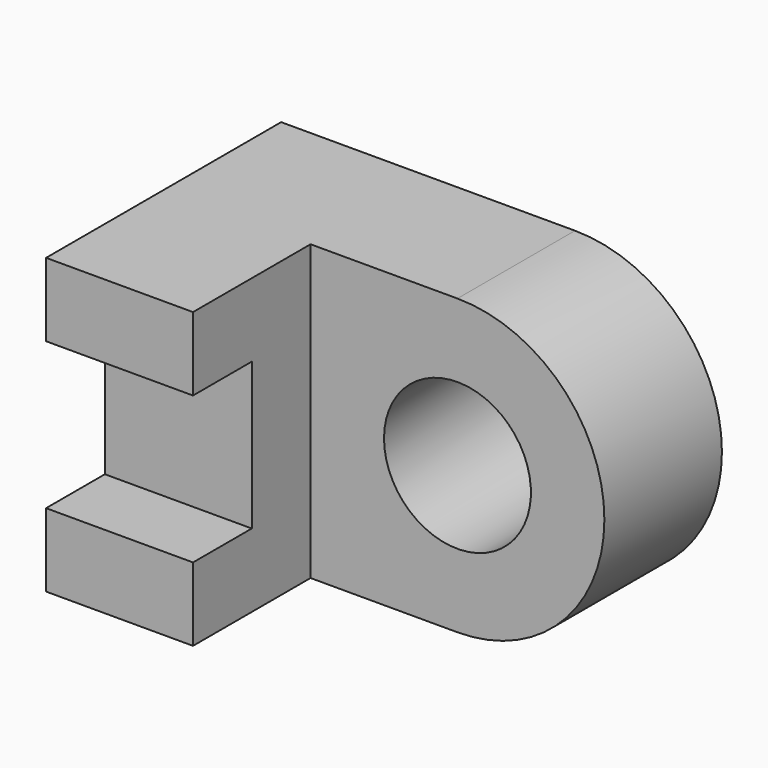
from build123d import *

# Parameters (mm, degrees)
F0_W     = 12.7
F0_H     = 25.4
F1_DEPTH = 25.4
F2_W     = 6.35
F2_H     = 12.7
F3_DEPTH = 38.101
F4_R     = 6.35
F5_DEPTH = 12.7


with BuildPart() as f1:
    # F0 (on Top) → F1 (new body)
    with BuildSketch(Plane.XY):
        with Locations((-31.75, 12.7)):
            Rectangle(F0_W, F0_H)
    extrude(amount=F1_DEPTH)

    # F2 (on Right) → F3 (cut, through all)
    with BuildSketch(Plane.YZ):
        with Locations((3.175, 12.7)):
            Rectangle(F2_W, F2_H)
    extrude(amount=-F3_DEPTH, mode=Mode.SUBTRACT)

    # F4 (on face) → F5 (join)
    with BuildSketch(Plane(origin=(0, 25.4, 0), x_dir=(-1, 0, 0), z_dir=(0, 1, 0))):
        with BuildLine():
            Line((38.1, 25.4), (12.7, 25.4))
            ThreePointArc((12.7, 25.4), (0, 12.7), (12.7, 0))
            Line((12.7, 0), (38.1, 0))
            Line((38.1, 0), (38.1, 25.4))
        make_face()
        with Locations((12.7, 12.7)):
            Circle(F4_R, mode=Mode.SUBTRACT)
    extrude(amount=-F5_DEPTH)


solid = f1.part
